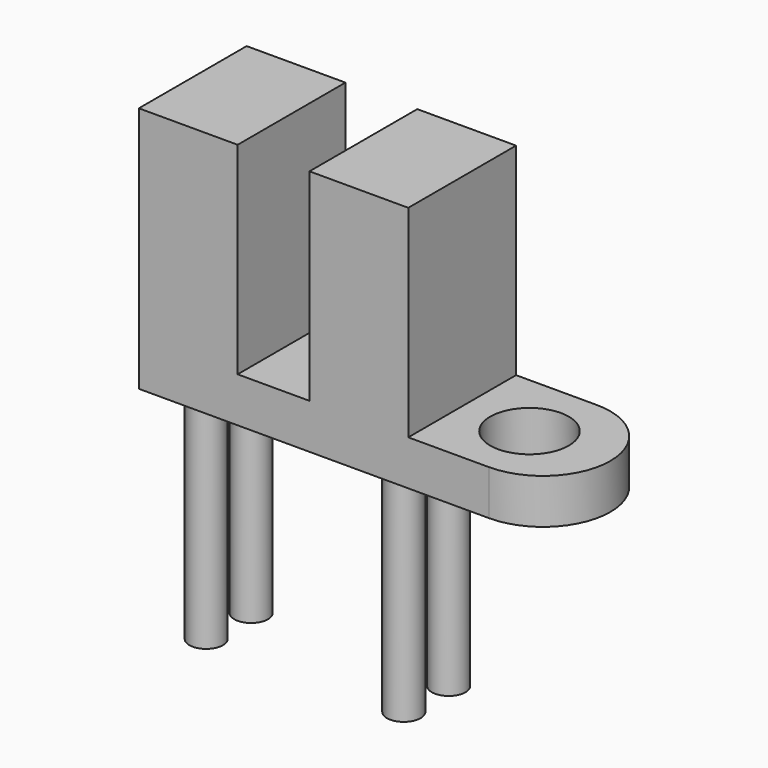
from build123d import *

# Parameters (mm, degrees)
F1_DEPTH = 2
F2_W     = 4.4
F2_H     = 6
F3_DEPTH = 9
F4_R     = 0.75
F5_DEPTH = 10
F6_R     = 1.75
F7_DEPTH = 12.001


with BuildPart() as f1:
    # F0 (on Top) → F1 (new body)
    with BuildSketch(Plane.XY):
        with BuildLine():
            Line((6, 3), (-6, 3))
            Line((-6, 3), (-6, -3))
            Line((-6, -3), (6, -3))
            Line((6, -3), (9.6, -3))
            ThreePointArc((9.6, -3), (12.6, 0), (9.6, 3))
            Line((9.6, 3), (6, 3))
        make_face()
    extrude(amount=F1_DEPTH)

    # F2 (on face) → F3 (join)
    with BuildSketch(Plane.XY.offset(2)):
        with Locations((-3.8, 0)):
            Rectangle(F2_W, F2_H)
        with Locations((3.8, 0)):
            Rectangle(F2_W, F2_H)
    extrude(amount=F3_DEPTH)

    # F4 (on face) → F5 (join)
    with BuildSketch(Plane(origin=(0, 0, 0), x_dir=(1, 0, 0), z_dir=(0, 0, -1))):
        with Locations((-4.4, 1.25)):
            Circle(F4_R)
        with Locations((4.4, 1.25)):
            Circle(F4_R)
        with Locations((4.4, -1.25)):
            Circle(F4_R)
        with Locations((-4.4, -1.25)):
            Circle(F4_R)
    extrude(amount=F5_DEPTH)

    # F6 (on face) → F7 (cut, through all)
    with BuildSketch(Plane.XY.offset(2)):
        with Locations((9, 0)):
            Circle(F6_R)
    extrude(amount=-F7_DEPTH, mode=Mode.SUBTRACT)


solid = f1.part
